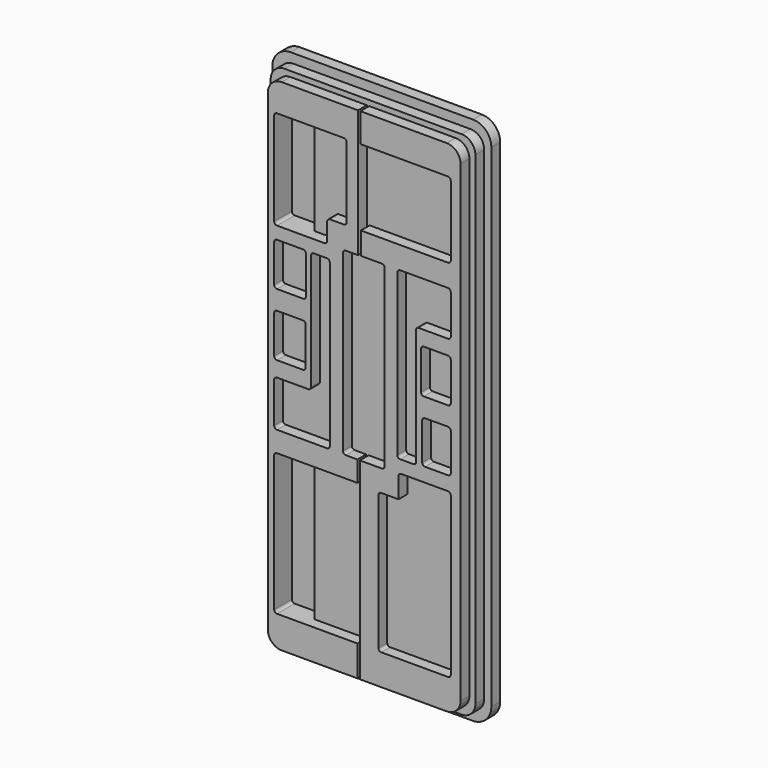
from build123d import *

# Parameters (mm, degrees)
F1_DEPTH = 3.048
F3_DEPTH = 3.048
F5_DEPTH = 3.048


with BuildPart() as f1:
    # F0 (on Front) → F1 (new body)
    with BuildSketch(Plane.XZ):
        with BuildLine():
            Line((-27.215604, 61.783131), (-27.215604, -68.822387))
            ThreePointArc((-27.215604, -68.822387), (-26.099681, -71.516464), (-23.405604, -72.632387))
            Line((-23.405604, -72.632387), (-2.464669, -72.632387))
            Line((-2.464669, -72.632387), (-2.464669, -64.140432))
            Line((-2.464669, -64.140432), (-24.693408, -64.140432))
            ThreePointArc((-24.693408, -64.140432), (-25.232223, -63.917247), (-25.455408, -63.378432))
            Line((-25.455408, -63.378432), (-25.455408, -25.846069))
            ThreePointArc((-25.455408, -25.846069), (-25.232223, -25.307254), (-24.693408, -25.084069))
            Line((-24.693408, -25.084069), (-2.464669, -25.084069))
            Line((-2.464669, -25.084069), (-2.464669, -19.391987))
            Line((-2.464669, -19.391987), (-5.690682, -19.391987))
            ThreePointArc((-5.690682, -19.391987), (-6.229498, -19.168803), (-6.452682, -18.629987))
            Line((-6.452682, -18.629987), (-6.452682, 29.59835))
            ThreePointArc((-6.452682, 29.59835), (-6.229498, 30.137166), (-5.690682, 30.36035))
            Line((-5.690682, 30.36035), (-2.287077, 30.36035))
            Line((-2.287077, 30.36035), (-2.287077, 65.593131))
            Line((-2.287077, 65.593131), (-23.405604, 65.593131))
            ThreePointArc((-23.405604, 65.593131), (-26.099681, 64.477208), (-27.215604, 61.783131))
        make_face()
        with BuildLine():
            ThreePointArc((-25.455408, 8.798287), (-25.232223, 9.337102), (-24.693408, 9.560287))
            Line((-24.693408, 9.560287), (-17.513451, 9.560287))
            ThreePointArc((-17.513451, 9.560287), (-16.974636, 9.337102), (-16.751451, 8.798287))
            Line((-16.751451, 8.798287), (-16.751451, -1.699802))
            ThreePointArc((-16.751451, -1.699802), (-16.974636, -2.238618), (-17.513451, -2.461802))
            Line((-17.513451, -2.461802), (-24.693408, -2.461802))
            ThreePointArc((-24.693408, -2.461802), (-25.232223, -2.238618), (-25.455408, -1.699802))
            Line((-25.455408, -1.699802), (-25.455408, 8.798287))
        make_face(mode=Mode.SUBTRACT)
        with BuildLine():
            ThreePointArc((-25.455408, -7.460729), (-25.232223, -6.921914), (-24.693408, -6.698729))
            Line((-24.693408, -6.698729), (-16.028815, -6.698729))
            ThreePointArc((-16.028815, -6.698729), (-15.49, -6.475544), (-15.266815, -5.936729))
            Line((-15.266815, -5.936729), (-15.266815, 26.060438))
            ThreePointArc((-15.266815, 26.060438), (-15.043631, 26.599254), (-14.504815, 26.822438))
            Line((-14.504815, 26.822438), (-10.855766, 26.822438))
            ThreePointArc((-10.855766, 26.822438), (-10.316951, 26.599254), (-10.093766, 26.060438))
            Line((-10.093766, 26.060438), (-10.093766, -18.629987))
            ThreePointArc((-10.093766, -18.629987), (-10.316951, -19.168803), (-10.855766, -19.391987))
            Line((-10.855766, -19.391987), (-24.693408, -19.391987))
            ThreePointArc((-24.693408, -19.391987), (-25.232223, -19.168803), (-25.455408, -18.629987))
            Line((-25.455408, -18.629987), (-25.455408, -7.460729))
        make_face(mode=Mode.SUBTRACT)
        with BuildLine():
            ThreePointArc((-25.455408, 26.060438), (-25.232223, 26.599254), (-24.693408, 26.822438))
            Line((-24.693408, 26.822438), (-17.451537, 26.822438))
            ThreePointArc((-17.451537, 26.822438), (-16.912722, 26.599254), (-16.689537, 26.060438))
            Line((-16.689537, 26.060438), (-16.689537, 15.614866))
            ThreePointArc((-16.689537, 15.614866), (-16.912722, 15.07605), (-17.451537, 14.852866))
            Line((-17.451537, 14.852866), (-24.693408, 14.852866))
            ThreePointArc((-24.693408, 14.852866), (-25.232223, 15.07605), (-25.455408, 15.614866))
            Line((-25.455408, 15.614866), (-25.455408, 26.060438))
        make_face(mode=Mode.SUBTRACT)
        with BuildLine():
            Line((-25.455408, 31.034609), (-25.455408, 56.824335))
            ThreePointArc((-25.455408, 56.824335), (-25.232223, 57.36315), (-24.693408, 57.586335))
            Line((-24.693408, 57.586335), (-6.186478, 57.586335))
            ThreePointArc((-6.186478, 57.586335), (-5.647663, 57.36315), (-5.424478, 56.824335))
            Line((-5.424478, 56.824335), (-5.424478, 37.310197))
            ThreePointArc((-5.424478, 37.310197), (-5.647663, 36.771382), (-6.186478, 36.548197))
            Line((-6.186478, 36.548197), (-10.055168, 36.548197))
            ThreePointArc((-10.055168, 36.548197), (-10.593984, 36.325013), (-10.817168, 35.786197))
            Line((-10.817168, 35.786197), (-10.817168, 31.034609))
            ThreePointArc((-10.817168, 31.034609), (-11.040353, 30.495793), (-11.579168, 30.272609))
            Line((-11.579168, 30.272609), (-24.693408, 30.272609))
            ThreePointArc((-24.693408, 30.272609), (-25.232223, 30.495793), (-25.455408, 31.034609))
        make_face(mode=Mode.SUBTRACT)
        with BuildLine():
            Line((-1.799683, -19.391987), (-1.799683, -72.632387))
            Line((-1.799683, -72.632387), (22.221839, -72.632387))
            ThreePointArc((22.221839, -72.632387), (24.915916, -71.516464), (26.031839, -68.822387))
            Line((26.031839, -68.822387), (26.031839, 61.783131))
            ThreePointArc((26.031839, 61.783131), (24.915916, 64.477208), (22.221839, 65.593131))
            Line((22.221839, 65.593131), (-1.654555, 65.593131))
            Line((-1.654555, 65.593131), (-1.654555, 57.586335))
            Line((-1.654555, 57.586335), (22.565058, 57.586335))
            ThreePointArc((22.565058, 57.586335), (23.103874, 57.36315), (23.327058, 56.824335))
            Line((23.327058, 56.824335), (23.327058, 37.38084))
            ThreePointArc((23.327058, 37.38084), (23.103874, 36.842025), (22.565058, 36.61884))
            Line((22.565058, 36.61884), (-1.516778, 36.61884))
            Line((-1.516778, 36.61884), (-1.516778, 30.44359))
            Line((-1.516778, 30.44359), (4.297159, 30.44359))
            ThreePointArc((4.297159, 30.44359), (4.835975, 30.220406), (5.059159, 29.68159))
            Line((5.059159, 29.68159), (5.059159, -18.629987))
            ThreePointArc((5.059159, -18.629987), (4.835975, -19.168803), (4.297159, -19.391987))
            Line((4.297159, -19.391987), (-1.799683, -19.391987))
        make_face()
        with BuildLine():
            Line((23.327058, -19.723452), (23.327058, -63.378432))
            ThreePointArc((23.327058, -63.378432), (23.103874, -63.917247), (22.565058, -64.140432))
            Line((22.565058, -64.140432), (4.102913, -64.140432))
            ThreePointArc((4.102913, -64.140432), (3.564097, -63.917247), (3.340913, -63.378432))
            Line((3.340913, -63.378432), (3.340913, -26.143166))
            ThreePointArc((3.340913, -26.143166), (3.564097, -25.604351), (4.102913, -25.381166))
            Line((4.102913, -25.381166), (8.884725, -25.381166))
            Line((8.884725, -25.381166), (8.884725, -19.723452))
            ThreePointArc((8.884725, -19.723452), (9.10791, -19.184637), (9.646725, -18.961452))
            Line((9.646725, -18.961452), (22.565058, -18.961452))
            ThreePointArc((22.565058, -18.961452), (23.103874, -19.184637), (23.327058, -19.723452))
        make_face(mode=Mode.SUBTRACT)
        with BuildLine():
            Line((16.206523, -3.277048), (22.565058, -3.277048))
            ThreePointArc((22.565058, -3.277048), (23.103874, -3.500233), (23.327058, -4.039048))
            Line((23.327058, -4.039048), (23.327058, -14.328273))
            ThreePointArc((23.327058, -14.328273), (23.103874, -14.867088), (22.565058, -15.090273))
            Line((22.565058, -15.090273), (16.206523, -15.090273))
            ThreePointArc((16.206523, -15.090273), (15.667707, -14.867088), (15.444523, -14.328273))
            Line((15.444523, -14.328273), (15.444523, -4.039048))
            ThreePointArc((15.444523, -4.039048), (15.667707, -3.500233), (16.206523, -3.277048))
        make_face(mode=Mode.SUBTRACT)
        with BuildLine():
            Line((9.334675, 30.473812), (22.565058, 30.473812))
            ThreePointArc((22.565058, 30.473812), (23.103874, 30.250627), (23.327058, 29.711812))
            Line((23.327058, 29.711812), (23.327058, 18.880225))
            ThreePointArc((23.327058, 18.880225), (23.103874, 18.34141), (22.565058, 18.118225))
            Line((22.565058, 18.118225), (14.499665, 18.118225))
            ThreePointArc((14.499665, 18.118225), (13.96085, 17.89504), (13.737665, 17.356225))
            Line((13.737665, 17.356225), (13.737665, -14.725744))
            ThreePointArc((13.737665, -14.725744), (13.514481, -15.264559), (12.975665, -15.487744))
            Line((12.975665, -15.487744), (9.334675, -15.487744))
            ThreePointArc((9.334675, -15.487744), (8.79586, -15.264559), (8.572675, -14.725744))
            Line((8.572675, -14.725744), (8.572675, 29.711812))
            ThreePointArc((8.572675, 29.711812), (8.79586, 30.250627), (9.334675, 30.473812))
        make_face(mode=Mode.SUBTRACT)
        with BuildLine():
            Line((15.88612, 14.02483), (22.565058, 14.02483))
            ThreePointArc((22.565058, 14.02483), (23.103874, 13.801646), (23.327058, 13.26283))
            Line((23.327058, 13.26283), (23.327058, 2.677905))
            ThreePointArc((23.327058, 2.677905), (23.103874, 2.139089), (22.565058, 1.915905))
            Line((22.565058, 1.915905), (15.88612, 1.915905))
            ThreePointArc((15.88612, 1.915905), (15.347304, 2.139089), (15.12412, 2.677905))
            Line((15.12412, 2.677905), (15.12412, 13.26283))
            ThreePointArc((15.12412, 13.26283), (15.347304, 13.801646), (15.88612, 14.02483))
        make_face(mode=Mode.SUBTRACT)
    extrude(amount=F1_DEPTH)

    # F2 (on Front) → F3 (join)
    with BuildSketch(Plane.XZ):
        with BuildLine():
            Line((-25.056604, -74.105591), (23.872839, -74.105591))
            ThreePointArc((23.872839, -74.105591), (26.566916, -72.989667), (27.682839, -70.295591))
            Line((27.682839, -70.295591), (27.682839, 63.256334))
            ThreePointArc((27.682839, 63.256334), (26.566916, 65.950411), (23.872839, 67.066334))
            Line((23.872839, 67.066334), (-25.056604, 67.066334))
            ThreePointArc((-25.056604, 67.066334), (-27.750681, 65.950411), (-28.866604, 63.256334))
            Line((-28.866604, 63.256334), (-28.866604, -70.295591))
            ThreePointArc((-28.866604, -70.295591), (-27.750681, -72.989667), (-25.056604, -74.105591))
        make_face()
        with BuildLine():
            Line((-16.71073, -64.140432), (-24.693408, -64.140432))
            ThreePointArc((-24.693408, -64.140432), (-25.232223, -63.917247), (-25.455408, -63.378432))
            Line((-25.455408, -63.378432), (-25.455408, -25.846069))
            ThreePointArc((-25.455408, -25.846069), (-25.232223, -25.307254), (-24.693408, -25.084069))
            Line((-24.693408, -25.084069), (-16.71073, -25.084069))
            Line((-16.71073, -25.084069), (-16.71073, -64.140432))
        make_face(mode=Mode.SUBTRACT)
        with BuildLine():
            Line((-16.71073, 57.586335), (-16.71073, 30.272609))
            Line((-16.71073, 30.272609), (-24.693408, 30.272609))
            ThreePointArc((-24.693408, 30.272609), (-25.232223, 30.495793), (-25.455408, 31.034609))
            Line((-25.455408, 31.034609), (-25.455408, 56.824335))
            ThreePointArc((-25.455408, 56.824335), (-25.232223, 57.36315), (-24.693408, 57.586335))
            Line((-24.693408, 57.586335), (-16.71073, 57.586335))
        make_face(mode=Mode.SUBTRACT)
    extrude(amount=-F3_DEPTH)

    # F4 (on face) → F5 (join)
    with BuildSketch(Plane(origin=(0, 3.048, 0), x_dir=(-1, 0, 0), z_dir=(0, 1, 0))):
        with BuildLine():
            Line((-29.664039, 64.526334), (-29.664039, -71.565591))
            ThreePointArc((-29.664039, -71.565591), (-28.176141, -75.157693), (-24.584039, -76.645591))
            Line((-24.584039, -76.645591), (25.767804, -76.645591))
            ThreePointArc((25.767804, -76.645591), (29.359906, -75.157693), (30.847804, -71.565591))
            Line((30.847804, -71.565591), (30.847804, 64.526334))
            ThreePointArc((30.847804, 64.526334), (29.359906, 68.118437), (25.767804, 69.606334))
            Line((25.767804, 69.606334), (-24.584039, 69.606334))
            ThreePointArc((-24.584039, 69.606334), (-28.176141, 68.118437), (-29.664039, 64.526334))
        make_face()
    extrude(amount=F5_DEPTH)


solid = f1.part
